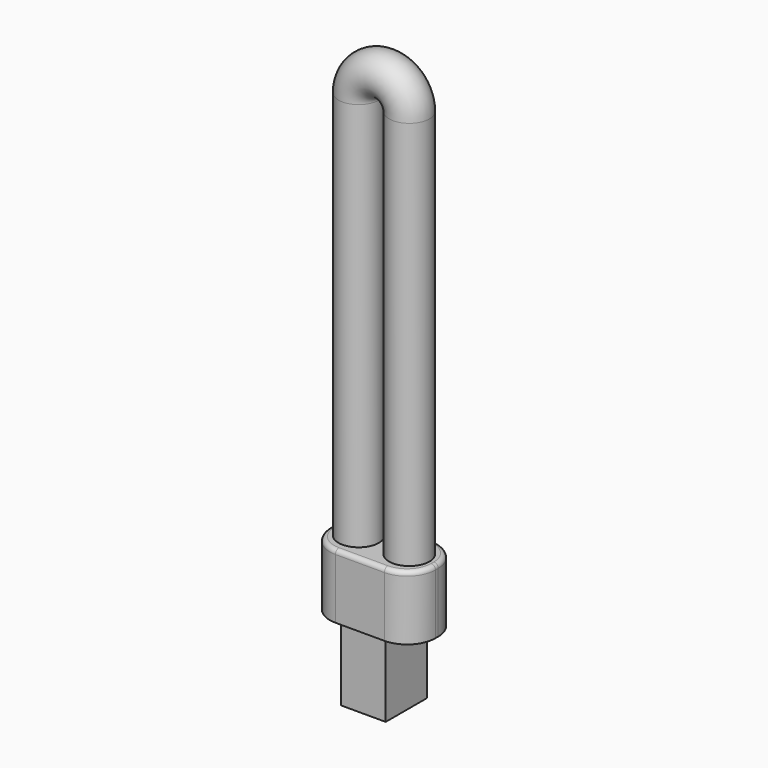
from build123d import *

# Parameters (mm, degrees)
F0_R      = 5.969
F1_DEPTH  = 115.316
F3_DEPTH  = 19.05
F1_FACE_R = 5.969
F5_ANGLE  = -180
F6_R      = 1.27
F7_W      = 13.208
F7_H      = 15.24
F8_DEPTH  = 21.844


with BuildPart() as f1:
    # F0 (on Top) → F1 (new body)
    with BuildSketch(Plane.XY):
        with Locations((7.493, 0)):
            Circle(F0_R)
        with Locations((-7.493, 0)):
            Circle(F0_R)
    extrude(amount=F1_DEPTH)

    # F2 (on Top) → F3 (join)
    with BuildSketch(Plane.XY):
        with BuildLine():
            ThreePointArc((-15.621, -0.508), (-13.165969, -6.434969), (-7.239, -8.89))
            Line((-7.239, -8.89), (7.239, -8.89))
            ThreePointArc((7.239, -8.89), (13.165969, -6.434969), (15.621, -0.508))
            Line((15.621, -0.508), (15.621, 0.508))
            ThreePointArc((15.621, 0.508), (13.165969, 6.434969), (7.239, 8.89))
            Line((7.239, 8.89), (-7.239, 8.89))
            ThreePointArc((-7.239, 8.89), (-13.165969, 6.434969), (-15.621, 0.508))
            Line((-15.621, 0.508), (-15.621, -0.508))
        make_face()
    extrude(amount=-F3_DEPTH)

    # F1_face (on face) → F5 (revolve)
    with BuildSketch(Plane(origin=(-7.493, 0, 115.316), x_dir=(1, 0, 0), z_dir=(0, 0, 1))):
        with Locations((14.986, 0)):
            Circle(F1_FACE_R)
    revolve(axis=Axis((0, 21.043353, 115.316), (0, 1, 0)), revolution_arc=F5_ANGLE)

    # F6
    f6_edges = [f1.edges().sort_by_distance(p)[0] for p in [
        (0, -8.89, 0),
    ]]
    fillet(f6_edges, radius=F6_R)

    # F7 (on face) → F8 (join)
    with BuildSketch(Plane(origin=(0, 0, -19.05), x_dir=(1, 0, 0), z_dir=(0, 0, -1))):
        Rectangle(F7_W, F7_H)
    extrude(amount=F8_DEPTH)


solid = f1.part
